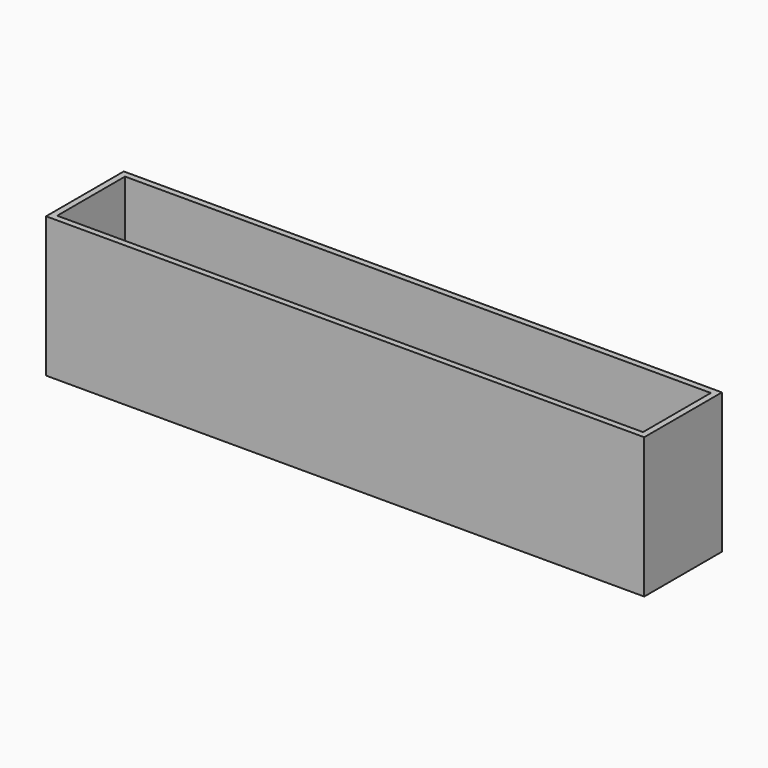
from build123d import *

# Parameters (mm, degrees)
F0_W     = 190
F0_H     = 43.5
F1_DEPTH = 13.75
F2_T     = 2


with BuildPart() as f1:
    # F0 (on Front) → F1 (new body, symmetric)
    with BuildSketch(Plane.XZ):
        with Locations((5.2067562938, 17.7068578831)):
            Rectangle(F0_W, F0_H)
    extrude(amount=F1_DEPTH, both=True)

    # F2
    f2_openings = [f1.faces().sort_by_distance(p)[0] for p in [
        (5.206756, 0, 39.456858),
    ]]
    offset(amount=F2_T, openings=f2_openings, kind=Kind.INTERSECTION)


solid = f1.part
